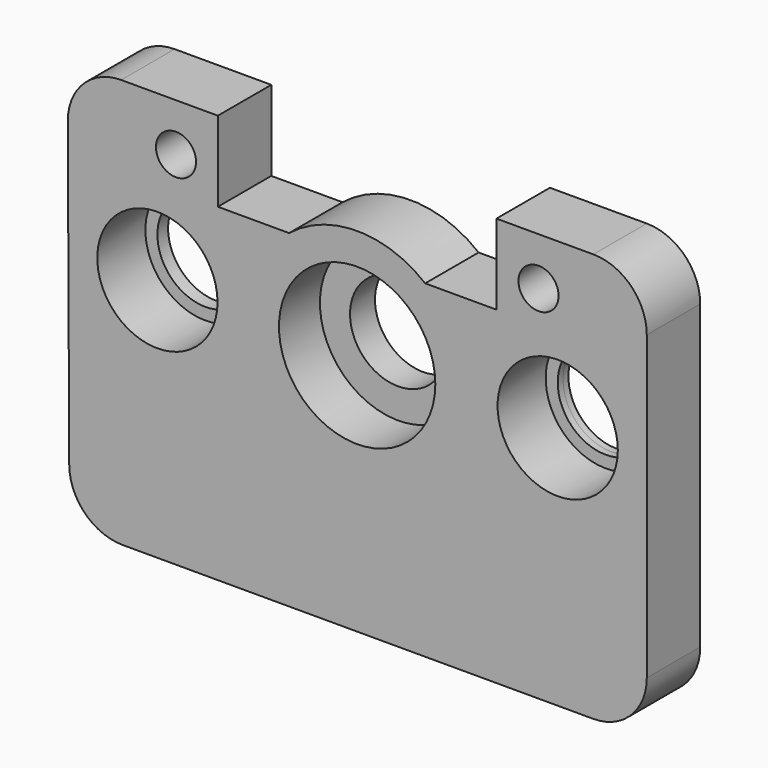
from build123d import *

# Parameters (mm, degrees)
F0_R     = 342.9
F0_R_2   = 445.77
F0_R_3   = 114.3
F1_DEPTH = 381
F0_R_4   = 274.32
F2_DEPTH = 88.9
F3_DEPTH = 38.1


with BuildPart() as f1:
    # F0 (on Front) → F1 (new body)
    with BuildSketch(Plane.XZ):
        with BuildLine():
            ThreePointArc((-73.903867776, 242.8346680415), (15.8917497981, 28.2686029567), (230.8925186905, -60.4811497033))
            Line((230.8925186905, -60.4811497033), (2914.6131049652, -60.4811497033))
            ThreePointArc((2914.6131049652, -60.4811497033), (3130.1392518708, 28.7927033911), (3219.4131049652, 244.3188502967))
            Line((3219.4131049652, 244.3188502967), (3219.4131049652, 1966.4388502967))
            ThreePointArc((3219.4131049652, 1966.4388502967), (3130.1392518708, 2181.9649972024), (2914.6131049652, 2271.2388502967))
            Line((2914.6131049652, 2271.2388502967), (2362.1631049652, 2271.2388502967))
            Line((2362.1631049652, 2271.2388502967), (2362.1631049652, 1814.0388502967))
            Line((2362.1631049652, 1814.0388502967), (1955.7631049652, 1814.0388502967))
            ThreePointArc((1955.7631049652, 1814.0388502967), (1567.816040535, 1951.1988502967), (1179.8689761048, 1814.0388502967))
            Line((1179.8689761048, 1814.0388502967), (773.4689761048, 1814.0388502967))
            Line((773.4689761048, 1814.0388502967), (773.4689761048, 2271.2388502967))
            Line((773.4689761048, 2271.2388502967), (222.5067895322, 2271.2388502967))
            ThreePointArc((222.5067895322, 2271.2388502967), (6.4565421921, 2181.4396191891), (-82.2895969343, 1964.9546680415))
            Line((-82.2895969343, 1964.9546680415), (-73.903867776, 242.8346680415))
        make_face()
        with Locations((428.7889132739, 1333.9788502967)):
            Circle(F0_R, mode=Mode.SUBTRACT)
        with Locations((1567.8138927922, 1326.0913376031)):
            Circle(F0_R_2, mode=Mode.SUBTRACT)
        with Locations((534.7734156303, 1998.6968502967)):
            Circle(F0_R_3, mode=Mode.SUBTRACT)
        with Locations((2711.4131049652, 1333.9788502967)):
            Circle(F0_R, mode=Mode.SUBTRACT)
        with Locations((2602.1931049652, 1998.6968502967)):
            Circle(F0_R_3, mode=Mode.SUBTRACT)
    extrude(amount=F1_DEPTH)

    # F0 (on Front) → F2 (join, symmetric)
    with BuildSketch(Plane.XZ):
        with Locations((1567.8138927922, 1326.0913376031)):
            Circle(F0_R_2)
        with Locations((1567.8138927922, 1326.0913376031)):
            Circle(F0_R_4, mode=Mode.SUBTRACT)
    extrude(amount=F2_DEPTH, both=True)

    # F0 (on Front) → F3 (join, symmetric)
    with BuildSketch(Plane.XZ):
        with Locations((2711.4131049652, 1333.9788502967)):
            Circle(F0_R)
        with Locations((2711.4131049652, 1333.9788502967)):
            Circle(F0_R_4, mode=Mode.SUBTRACT)
        with Locations((428.7889132739, 1333.9788502967)):
            Circle(F0_R)
        with Locations((428.7889132739, 1333.9788502967)):
            Circle(F0_R_4, mode=Mode.SUBTRACT)
    extrude(amount=F3_DEPTH, both=True)


solid = f1.part
